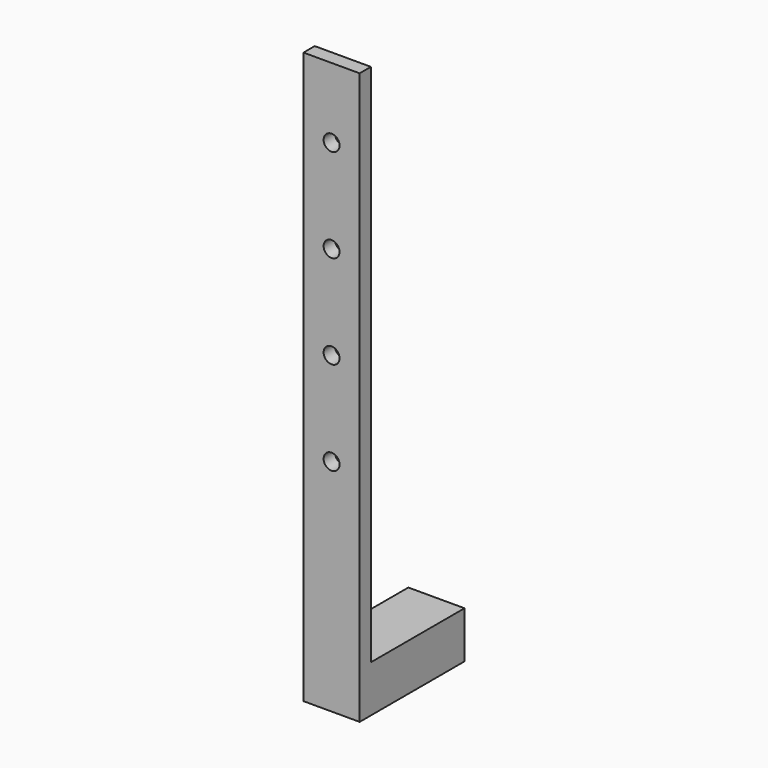
from build123d import *

# Parameters (mm, degrees)
F0_W     = 3
F0_H     = 122
F1_DEPTH = 12
F2_W     = 12
F2_H     = 10
F3_DEPTH = 25
F4_R     = 1.7
F5_DEPTH = 3.001


with BuildPart() as f1:
    # F0 (on Right) → F1 (new body)
    with BuildSketch(Plane.YZ):
        with Locations((-1.5, 61)):
            Rectangle(F0_W, F0_H)
    extrude(amount=F1_DEPTH)

    # F2 (on face) → F3 (join)
    with BuildSketch(Plane(origin=(0, 0, 0), x_dir=(-1, 0, 0), z_dir=(0, 1, 0))):
        with Locations((-6, 5)):
            Rectangle(F2_W, F2_H)
    extrude(amount=F3_DEPTH)

    # F4 (on face) → F5 (cut, through all)
    with BuildSketch(Plane(origin=(0, 0, 0), x_dir=(-1, 0, 0), z_dir=(0, 1, 0))):
        with Locations((-6, 107)):
            Circle(F4_R)
        with Locations((-6, 87)):
            Circle(F4_R)
        with Locations((-6, 67)):
            Circle(F4_R)
        with Locations((-6, 47)):
            Circle(F4_R)
    extrude(amount=-F5_DEPTH, mode=Mode.SUBTRACT)


solid = f1.part
